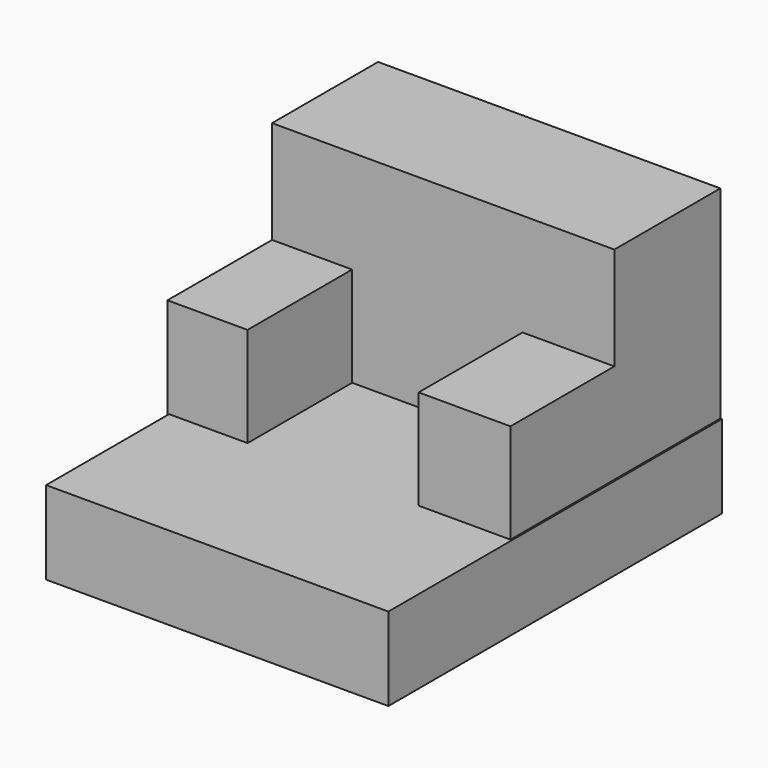
from build123d import *

# Parameters (mm, degrees)
F0_W     = 98.428418
F0_H     = 58.695849
F1_DEPTH = 38.1
F2_W     = 23.026837
F2_H     = 29.122172
F3_DEPTH = 37.592
F4_W     = 26.407606
F4_H     = 29.122172
F5_DEPTH = 37.338
F6_W     = 98.428428
F6_H     = 23.929847
F7_DEPTH = 119.888


with BuildPart() as f1:
    # F0 (on Front) → F1 (new body)
    with BuildSketch(Plane.XZ):
        with Locations((-0.45151, 0.225753)):
            Rectangle(F0_W, F0_H)
    extrude(amount=F1_DEPTH)

    # F2 (on face) → F3 (join)
    with BuildSketch(Plane.XZ.offset(38.1)):
        with Locations((-38.1523, -14.561086)):
            Rectangle(F2_W, F2_H)
    extrude(amount=F3_DEPTH)

    # F4 (on face) → F5 (join)
    with BuildSketch(Plane.XZ.offset(38.1)):
        with Locations((35.558896, -14.561086)):
            Rectangle(F4_W, F4_H)
    extrude(amount=F5_DEPTH)

    # F6 (on Front) → F7 (join)
    with BuildSketch(Plane.XZ):
        with Locations((4e-06, -40.635587)):
            Rectangle(F6_W, F6_H)
    extrude(amount=F7_DEPTH)


solid = f1.part
